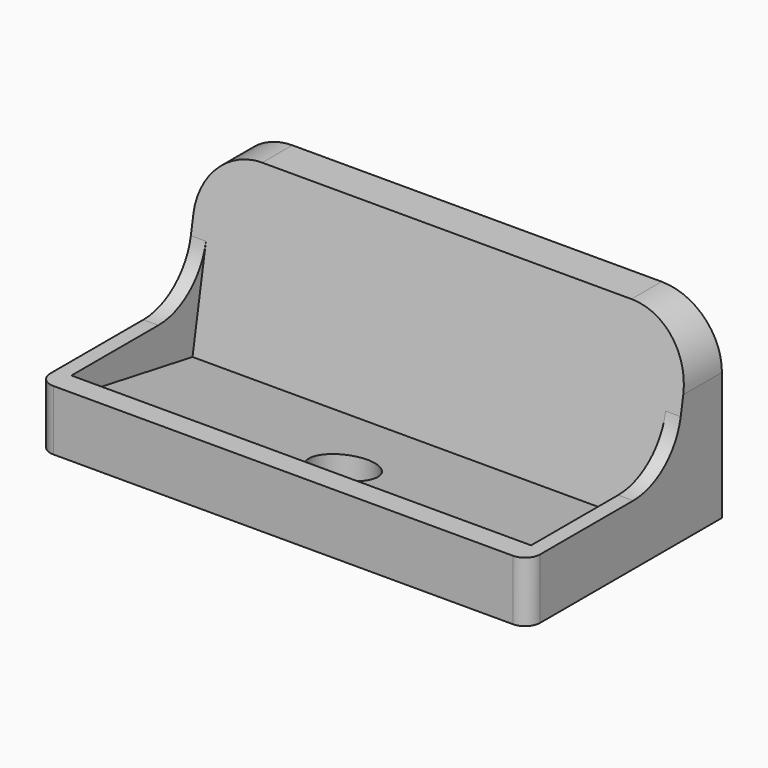
from build123d import *

# Parameters (mm, degrees)
F1_DEPTH = 32.5
F3_DEPTH = 2
F4_R     = 8
F5_R     = 2
F7_R     = 4
F8_DEPTH = 5.0144418823


with BuildPart() as f1:
    # F0 (on Right) → F1 (new body)
    with BuildSketch(Plane.YZ):
        Polygon((-32.1455987177, 8), (-32.1455987177, 0), (0, 0), (0, 25), (-5, 25), (-9.0555205563, 2), (-29.1455987177, 5.5424228244), (-29.1455987177, 8), align=None)
    extrude(amount=F1_DEPTH)

    # F2 (on face) → F3 (join)
    with BuildSketch(Plane.YZ.offset(32.5)):
        Polygon((-7.997558672, 8), (-29.1455987177, 8), (-29.1455987177, 5.5424228244), (-9.0555205563, 2), align=None)
    extrude(amount=-F3_DEPTH)

    # F4
    f4_edges = [f1.edges().sort_by_distance(p)[0] for p in [
        (31.5, -7.997559, 8),
        (32.5, -2.5, 25),
    ]]
    fillet(f4_edges, radius=F4_R)

    # F5
    f5_edges = [f1.edges().sort_by_distance(p)[0] for p in [
        (32.5, -32.145599, 4),
    ]]
    fillet(f5_edges, radius=F5_R)

    # F6: F1 across plane


with BuildPart() as f1_1:
    add(f1.part)
    add(f1.part.mirror(Plane.YZ))

    # F7 (on face) → F8 (cut, through all)
    with BuildSketch(Plane(origin=(0, 0, 0), x_dir=(1, 0, 0), z_dir=(0, 0, -1))):
        with Locations((0, 22.1455987177)):
            Circle(F7_R)
    extrude(amount=-F8_DEPTH, mode=Mode.SUBTRACT)


solid = f1_1.part
